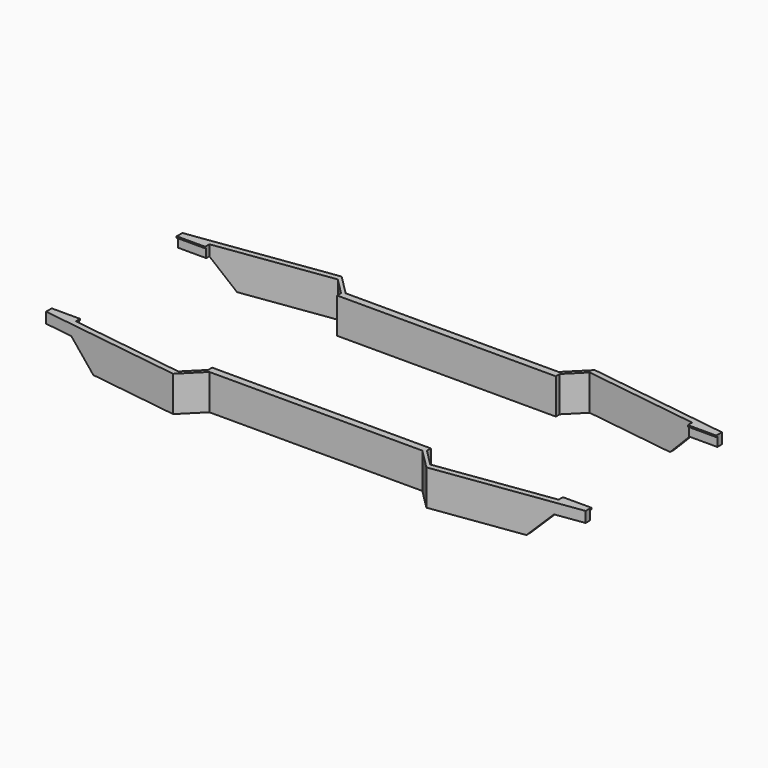
from build123d import *

# Parameters (mm, degrees)
F1_DEPTH  = 50
F3_W      = 220
F3_H      = 40
F4_DEPTH  = 760
F5_DEPTH  = 240
F6_W      = 319.9999928474
F6_H      = 220
F6_W_2    = 280
F6_H_2    = 180
F7_DEPTH  = 50
F8_DEPTH  = 435.9292732552
F9_W      = 140
F9_H      = 220
F10_DEPTH = 10
F12_DEPTH = 240
F13_DEPTH = 25
F14_DEPTH = 25
F16_W     = 220
F16_H     = 40
F17_DEPTH = 5
F15_W     = 220
F15_H     = 40
F18_DEPTH = 5
F19_DEPTH = 121.5992048383
F20_DEPTH = 1432.7406287193
F21_DEPTH = 794.6060718969
F22_DEPTH = 848.3018605039
F24_DEPTH = 50
F25_DEPTH = 50
F27_DEPTH = 50
F28_W     = 2
F28_H     = 46
F29_DEPTH = 777.0212888718
F30_DEPTH = 308


with BuildPart() as f1:
    # F0 (on Top) → F1 (new body)
    with BuildSketch(Plane.XY):
        Polygon((-178.3412894642, 148.3412835037), (-380, 120), (-380, -120), (-178.3412894642, -148.3412835037), (-150.0000059605, -120), (150.0000059605, -120), (178.3412894642, -148.3412835037), (380, -120), (380, 120), (178.3412894642, 148.3412835037), (150.0000059605, 120), (-150.0000059605, 120), align=None)
    extrude(amount=F1_DEPTH)

    # F3 (on face) → F4 (cut)
    with BuildSketch(Plane(origin=(-380, 0, 0), x_dir=(0, -1, 0), z_dir=(-1, 0, 0))):
        with Locations((0, 25)):
            Rectangle(F3_W, F3_H)
    extrude(amount=-F4_DEPTH, mode=Mode.SUBTRACT)

    # F2 (on face) → F5 (cut)
    with BuildSketch(Plane.XZ.offset(120)):
        Polygon((305, 0), (380, 0), (380, 35), (340, 35), align=None)
        Polygon((-340, 35), (-380, 35), (-380, 0), (-305, 0), align=None)
    extrude(amount=-F5_DEPTH, mode=Mode.SUBTRACT)

    # F6 (on face) → F7 (cut)
    with BuildSketch(Plane.XY.offset(50)):
        Rectangle(F6_W, F6_H)
        Rectangle(F6_W_2, F6_H_2, mode=Mode.SUBTRACT)
    extrude(amount=-F7_DEPTH, mode=Mode.SUBTRACT)

    # F2 (on face) → F8 (cut, symmetric)
    with BuildSketch(Plane.XZ.offset(120)):
        Polygon((-340, 35), (-380, 35), (-380, 0), (-305, 0), align=None)
        Polygon((305, 0), (380, 0), (380, 35), (340, 35), align=None)
    extrude(amount=F8_DEPTH, both=True, mode=Mode.SUBTRACT)

    # F9 (on face) → F10 (cut)
    with BuildSketch(Plane.XY.offset(50)):
        with Locations((-234.9999964237, 0)):
            Rectangle(F9_W, F9_H)
        with Locations((234.9999964237, 0)):
            Rectangle(F9_W, F9_H)
    extrude(amount=-F10_DEPTH, mode=Mode.SUBTRACT)

    # F11 (on face) → F12 (join)
    with BuildSketch(Plane.XZ.offset(120)):
        Polygon((-305.0000059605, 0), (-305.0000059605, 7.0710678119), (-332.9289381486, 35), (-340.0000059605, 35), align=None)
        Polygon((340.0000059605, 35), (332.9289381486, 35), (305.0000059605, 7.0710678119), (305.0000059605, 0), align=None)
    extrude(amount=-F12_DEPTH)

    # F13 (cut): a face of the model
    f13_faces = [f1.faces().sort_by_distance(p)[0] for p in [
        (0, 0, 50),
    ]]
    extrude(f13_faces, amount=-F13_DEPTH, mode=Mode.SUBTRACT)

    # F14 (cut): a face of the model
    f14_faces = [f1.faces().sort_by_distance(p)[0] for p in [
        (0, 0, 0),
    ]]
    extrude(f14_faces, amount=-F14_DEPTH, mode=Mode.SUBTRACT)

    # F16 (on face) → F17 (join)
    with BuildSketch(Plane.YZ.offset(-159.9999964237)):
        with Locations((0, 25)):
            Rectangle(F16_W, F16_H)
    extrude(amount=-F17_DEPTH)

    # F15 (on face) → F18 (join)
    with BuildSketch(Plane(origin=(159.9999964237, 0, 0), x_dir=(0, -1, 0), z_dir=(-1, 0, 0))):
        with Locations((0, 25)):
            Rectangle(F15_W, F15_H)
    extrude(amount=-F18_DEPTH)

    # F19 (cut): a face of the model
    f19_faces = [f1.faces().sort_by_distance(p)[0] for p in [
        (-304.9999964237, 0, 47.5),
    ]]
    extrude(f19_faces, amount=-F19_DEPTH, mode=Mode.SUBTRACT)

    # F20 (cut, symmetric): a face of the model
    f20_faces = [f1.faces().sort_by_distance(p)[0] for p in [
        (304.9999964237, 0, 47.5),
    ]]
    extrude(f20_faces, amount=F20_DEPTH, both=True, mode=Mode.SUBTRACT)

    # F21 (cut, symmetric): a face of the model
    f21_faces = [f1.faces().sort_by_distance(p)[0] for p in [
        (-164.9999964237, 0, 25),
    ]]
    extrude(f21_faces, amount=F21_DEPTH, both=True, mode=Mode.SUBTRACT)

    # F22 (cut, symmetric): a face of the model
    f22_faces = [f1.faces().sort_by_distance(p)[0] for p in [
        (-159.9999964237, 0, 2.5),
    ]]
    extrude(f22_faces, amount=F22_DEPTH, both=True, mode=Mode.SUBTRACT)

    # F23 (on face) → F24 (cut)
    with BuildSketch(Plane(origin=(0, 0, 0), x_dir=(1, 0, 0), z_dir=(0, 0, -1))):
        Polygon((-154.0000059605, -110), (-301, -110), (-301, -123.0241053613), (-177.4578903454, -140.3868165731), (-154.0000059605, -116.9289321881), align=None)
        Polygon((301, -123.0241053613), (301, -110), (154.0000059605, -110), (154.0000059605, -116.9289321881), (177.4578903454, -140.3868165731), align=None)
    extrude(amount=-F24_DEPTH, mode=Mode.SUBTRACT)

    # F23 (on face) → F25 (cut)
    with BuildSketch(Plane(origin=(0, 0, 0), x_dir=(1, 0, 0), z_dir=(0, 0, -1))):
        Polygon((-301, 123.0241053613), (-301, 110), (-154.0000059605, 110), (-154.0000059605, 116.9289321881), (-177.4578903454, 140.3868165731), align=None)
        Polygon((154.0000059605, 116.9289321881), (154.0000059605, 110), (301, 110), (301, 123.0241053613), (177.4578903454, 140.3868165731), align=None)
    extrude(amount=-F25_DEPTH, mode=Mode.SUBTRACT)

    # F26 (on face) → F27 (cut)
    with BuildSketch(Plane.XY.offset(50)):
        Polygon((301, -110), (301, -123.0241053613), (340, -117.5430128079), (340, -110), align=None)
        Polygon((-301, -123.0241053613), (-301, -110), (-340, -110), (-340, -117.5430128079), align=None)
        Polygon((301, 110), (340, 110), (340, 117.5430128079), (301, 123.0241053613), align=None)
        Polygon((-340, 110), (-301, 110), (-301, 123.0241053613), (-340, 117.5430128079), align=None)
    extrude(amount=-F27_DEPTH, mode=Mode.SUBTRACT)

    # F28 (on face) → F29 (cut, symmetric)
    with BuildSketch(Plane.YZ.offset(154.0000059605)):
        with Locations((-111, 25)):
            Rectangle(F28_W, F28_H)
        with Locations((111, 25)):
            Rectangle(F28_W, F28_H)
    extrude(amount=F29_DEPTH, both=True, mode=Mode.SUBTRACT)

    # F28 (on face) → F30 (join)
    with BuildSketch(Plane.YZ.offset(154.0000059605)):
        with Locations((-111, 25)):
            Rectangle(F28_W, F28_H)
        with Locations((111, 25)):
            Rectangle(F28_W, F28_H)
    extrude(amount=-F30_DEPTH)


solid = f1.part
